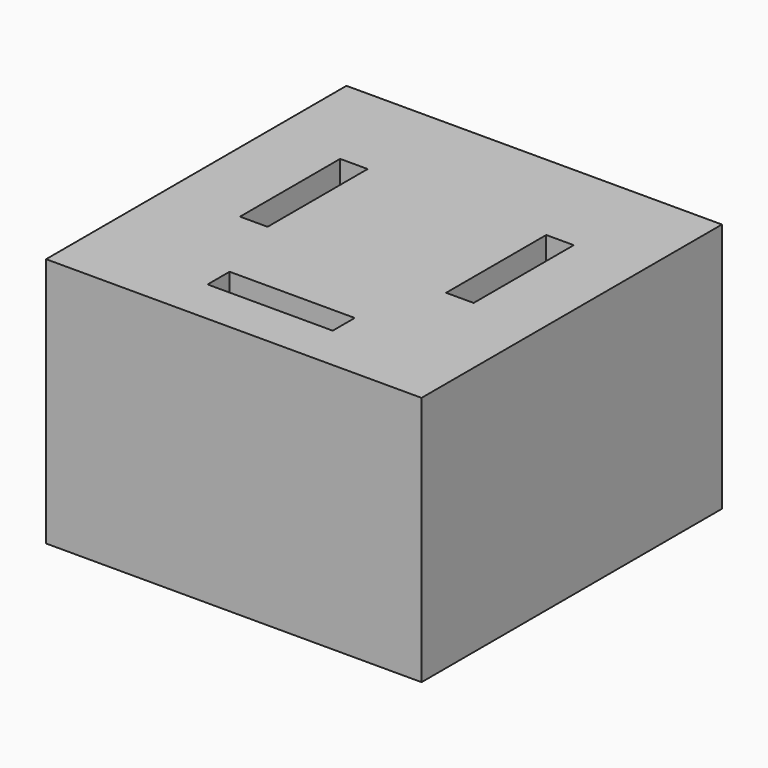
from build123d import *

# Parameters (mm, degrees)
F0_W     = 38.1
F0_H     = 38.1
F0_W_2   = 12.7
F0_H_2   = 2.794
F0_W_3   = 2.794
F0_H_3   = 12.7
F1_DEPTH = 25.4
F2_DEPTH = 25.4


with BuildPart() as f1:
    # F0 (on Top) → F1 (new body)
    with BuildSketch(Plane.XY):
        Rectangle(F0_W, F0_H)
        with Locations((0, -13.044956)):
            Rectangle(F0_W_2, F0_H_2, mode=Mode.SUBTRACT)
        with Locations((-10.21277, 2.598171)):
            Rectangle(F0_W_3, F0_H_3, mode=Mode.SUBTRACT)
        with Locations((10.70081, 2.598171)):
            Rectangle(F0_W_3, F0_H_3, mode=Mode.SUBTRACT)
    extrude(amount=F1_DEPTH)

    # F0 (on Top) → F2 (cut)
    with BuildSketch(Plane.XY):
        Rectangle(F0_W, F0_H)
        with Locations((0, -13.044956)):
            Rectangle(F0_W_2, F0_H_2, mode=Mode.SUBTRACT)
        with Locations((-10.21277, 2.598171)):
            Rectangle(F0_W_3, F0_H_3, mode=Mode.SUBTRACT)
        with Locations((10.70081, 2.598171)):
            Rectangle(F0_W_3, F0_H_3, mode=Mode.SUBTRACT)
    extrude(amount=-F2_DEPTH, mode=Mode.SUBTRACT)


solid = f1.part
